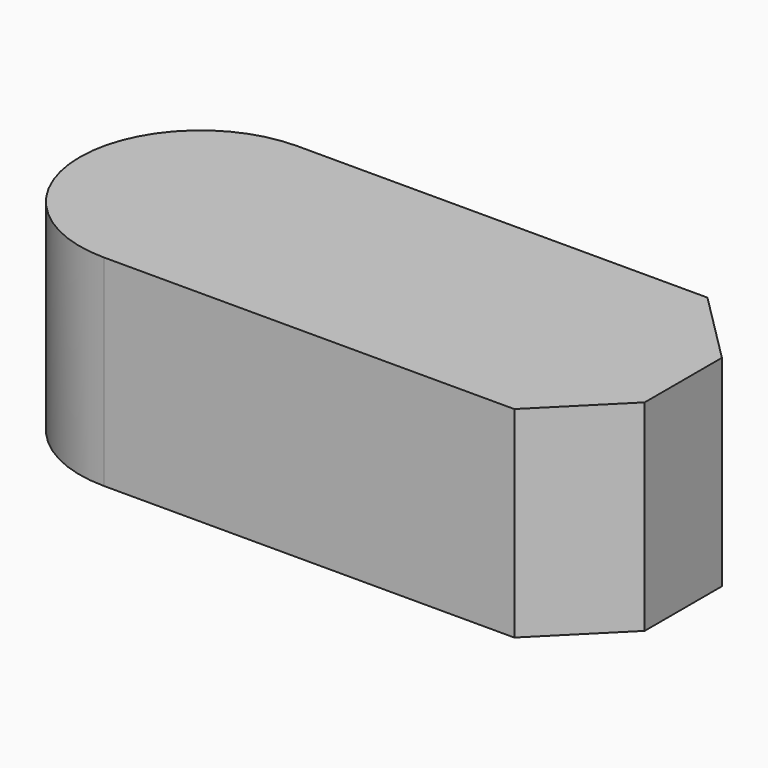
from build123d import *

# Parameters (mm, degrees)
F1_DEPTH = 25


with BuildPart() as f1:
    # F0 (on Top) → F1 (new body)
    with BuildSketch(Plane.XY):
        with BuildLine():
            Line((51, 30), (0, 30))
            ThreePointArc((0, 30), (-15, 15), (0, 0))
            Line((0, 0), (51, 0))
            Line((51, 0), (60, 9))
            Line((60, 9), (60, 21))
            Line((60, 21), (51, 30))
        make_face()
    extrude(amount=F1_DEPTH)


solid = f1.part
